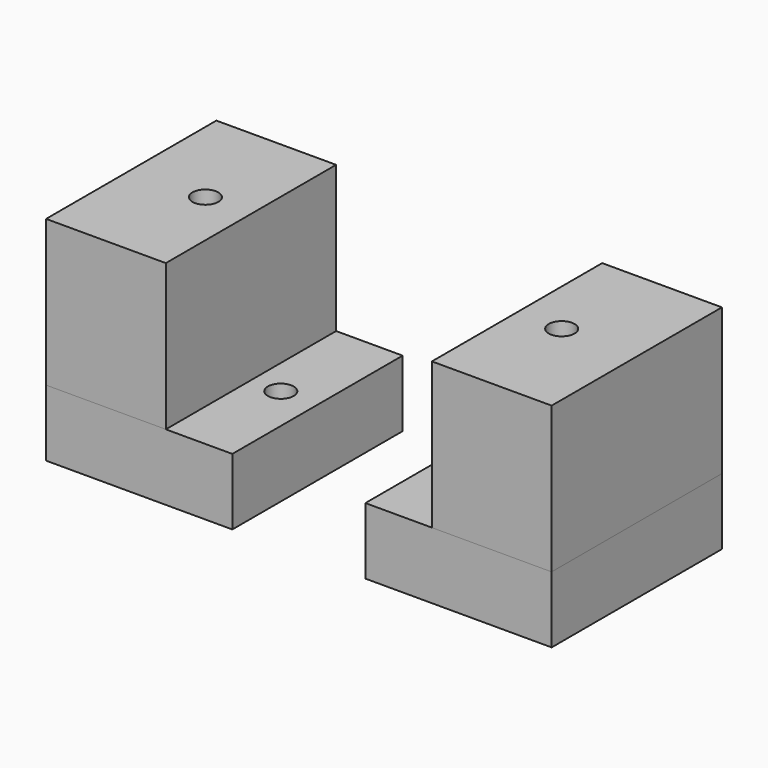
from build123d import *

# Parameters (mm, degrees)
F0_W     = 28.575
F0_H     = 50.8
F0_R     = 3.0861
F1_DEPTH = 50.8
F2_DEPTH = 15.875


with BuildPart() as f1:
    # F0 (on Top) → F1 (new body)
    with BuildSketch(Plane.XY):
        with Locations((-70.4613795156, 0)):
            Rectangle(F0_W, F0_H)
        with Locations((-67.0450795156, 0)):
            Circle(F0_R, mode=Mode.SUBTRACT)
    extrude(amount=F1_DEPTH)


with BuildPart() as f1b:
    # F0 (on Top) → F1, piece 2 (new body)
    with BuildSketch(Plane.XY):
        with Locations((21.6136204844, 0)):
            Rectangle(F0_W, F0_H)
        with Locations((17.9832, 0)):
            Circle(F0_R, mode=Mode.SUBTRACT)
    extrude(amount=F1_DEPTH)


with BuildPart() as f2:
    # F0 (on Top) → F2 (new body)
    with BuildSketch(Plane.XY):
        Polygon((-40.2988795156, -25.4), (-40.2988795156, 0), (-40.2988795156, 25.4), (-56.1738795156, 25.4), (-56.1738795156, -25.4), align=None)
        with Locations((-49.0618795156, 0)):
            Circle(F0_R, mode=Mode.SUBTRACT)
        with Locations((-70.4613795156, 0)):
            Rectangle(F0_W, F0_H)
        with Locations((-67.0450795156, 0)):
            Circle(F0_R, mode=Mode.SUBTRACT)
    extrude(amount=F2_DEPTH)


with BuildPart() as f2b:
    # F0 (on Top) → F2, piece 2 (new body)
    with BuildSketch(Plane.XY):
        Polygon((-8.5488795156, 25.4), (-8.5488795156, 0), (-8.5488795156, -25.4), (7.3261204844, -25.4), (7.3261204844, 25.4), align=None)
        with BuildLine():
            ThreePointArc((3.0861, 0), (0, -3.0861), (-3.0861, 0))
            ThreePointArc((-3.0861, 0), (0, 3.0861), (3.0861, 0))
        make_face(mode=Mode.SUBTRACT)
        with Locations((21.6136204844, 0)):
            Rectangle(F0_W, F0_H)
        with Locations((17.9832, 0)):
            Circle(F0_R, mode=Mode.SUBTRACT)
    extrude(amount=F2_DEPTH)


solid = Compound([f1.part, f1b.part, f2.part, f2b.part])
